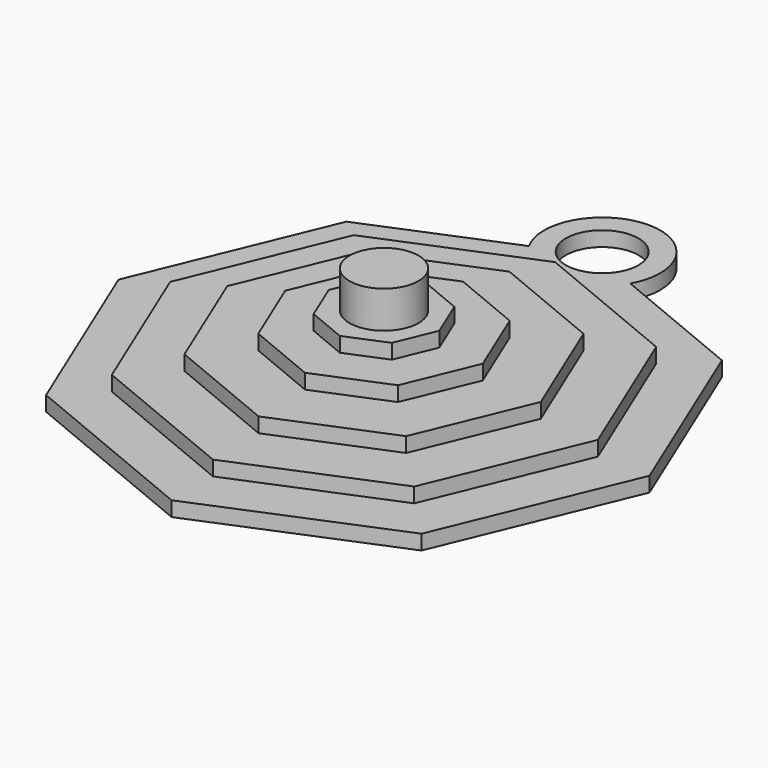
from build123d import *

# Parameters (mm, degrees)
F1_DEPTH  = 2
F3_DEPTH  = 2
F5_DEPTH  = 2
F7_DEPTH  = 2
F9_DEPTH  = 2
F10_R     = 7.838323
F11_DEPTH = 2
F12_R     = 4.907322
F13_DEPTH = 25.4
F14_R     = 4.658547
F15_DEPTH = 5


with BuildPart() as f1:
    # F0 (on Top) → F1 (new body)
    with BuildSketch(Plane.XY):
        Polygon((25.346567, 25.346567), (0, 35.845459), (-25.346567, 25.346567), (-35.845459, 0), (-25.346567, -25.346567), (0, -35.845459), (25.346567, -25.346567), (35.845459, 0), align=None)
    extrude(amount=F1_DEPTH)

    # F2 (on face) → F3 (join)
    with BuildSketch(Plane.XY.offset(2)):
        Polygon((20.415665, 20.415665), (0, 28.87211), (-20.415665, 20.415665), (-28.87211, 0), (-20.415665, -20.415665), (0, -28.87211), (20.415665, -20.415665), (28.87211, 0), align=None)
    extrude(amount=F3_DEPTH)

    # F4 (on face) → F5 (join)
    with BuildSketch(Plane.XY.offset(4)):
        Polygon((14.96572, 14.96572), (0, 21.164725), (-14.96572, 14.96572), (-21.164725, 0), (-14.96572, -14.96572), (0, -21.164725), (14.96572, -14.96572), (21.164725, 0), align=None)
    extrude(amount=F5_DEPTH)

    # F6 (on face) → F7 (join)
    with BuildSketch(Plane.XY.offset(6)):
        Polygon((9.429269, 9.429269), (0, 13.335001), (-9.429269, 9.429269), (-13.335001, 0), (-9.429269, -9.429269), (0, -13.335001), (9.429269, -9.429269), (13.335001, 0), align=None)
    extrude(amount=F7_DEPTH)

    # F8 (on face) → F9 (join)
    with BuildSketch(Plane.XY.offset(8)):
        Polygon((5.27693, 5.27693), (0, 7.462706), (-5.27693, 5.27693), (-7.462706, 0), (-5.27693, -5.27693), (0, -7.462706), (5.27693, -5.27693), (7.462706, 0), align=None)
    extrude(amount=F9_DEPTH)

    # F10 (on Top) → F11 (join)
    with BuildSketch(Plane.XY):
        with Locations((0, 36.824174)):
            Circle(F10_R)
    extrude(amount=F11_DEPTH)

    # F12 (on face) → F13 (cut)
    with BuildSketch(Plane.XY.offset(2)):
        with Locations((0, 36.824174)):
            Circle(F12_R)
    extrude(amount=-F13_DEPTH, mode=Mode.SUBTRACT)

    # F14 (on face) → F15 (join)
    with BuildSketch(Plane.XY.offset(10)):
        Circle(F14_R)
    extrude(amount=F15_DEPTH)


solid = f1.part
